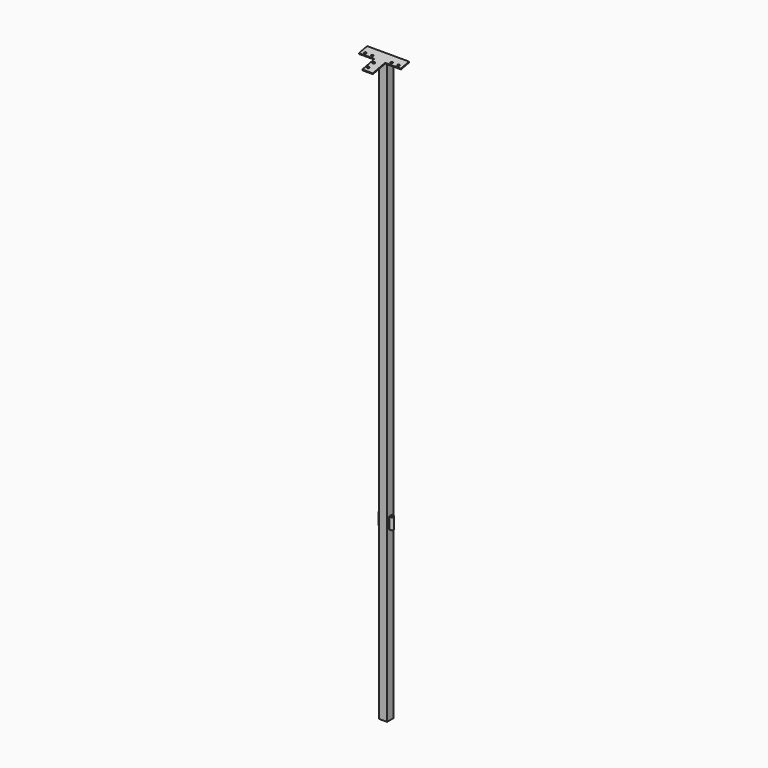
from build123d import *

# Parameters (mm, degrees)
F0_W      = 45
F0_H      = 45
F1_DEPTH  = 3330
F4_DEPTH  = 5
F5_R      = 8
F6_DEPTH  = 60
F9_W      = 45
F9_H      = 45.842251273
F10_DEPTH = 25
F11_W     = 60
F11_H     = 60
F11_W_2   = 90
F11_H_2   = 90
F12_DEPTH = 5
F13_R     = 6
F14_DEPTH = 25
F15_W     = 150
F15_H     = 4.7702248844
F16_DEPTH = 3358.6871623993
F18_DEPTH = 106.2


with BuildPart() as f1:
    # F0 (on Top) → F1 (new body)
    with BuildSketch(Plane.XY):
        Rectangle(F0_W, F0_H)
    extrude(amount=F1_DEPTH)

    # F3 (on offset) → F4 (join)
    with BuildSketch(Plane.XY.offset(965)):
        with BuildLine():
            Line((22.5, 2), (22.5, 0))
            ThreePointArc((22.5, 0), (22.5506384699, 1.0050896201), (22.7020410289, 2))
            Line((22.7020410289, 2), (22.5, 2))
        make_face()
        with BuildLine():
            ThreePointArc((22.7020410289, 2), (22.5506384699, 1.0050896201), (22.5, 0))
            Line((22.5, 0), (32.5, 0))
            Line((32.5, 0), (32.5, 2))
            Line((32.5, 2), (22.7020410289, 2))
        make_face()
        with BuildLine():
            Line((32.5, 0), (22.5, 0))
            ThreePointArc((22.5, 0), (22.5506384699, -1.0050896201), (22.7020410289, -2))
            Line((22.7020410289, -2), (32.5, -2))
            Line((32.5, -2), (32.5, 0))
        make_face()
        with BuildLine():
            ThreePointArc((22.7020410289, -2), (22.5506384699, -1.0050896201), (22.5, 0))
            Line((22.5, 0), (22.5, -2))
            Line((22.5, -2), (22.7020410289, -2))
        make_face()
        with BuildLine():
            Line((-22.4843378865, -10), (-22.4843378865, 0))
            Line((-22.4843378865, 0), (-22.5, 0))
            ThreePointArc((-22.5, 0), (-25.4289321881, -7.0710678119), (-32.5, -10))
            Line((-32.5, -10), (-22.4843378865, -10))
        make_face()
        with BuildLine():
            Line((-22.5, 0), (-22.4843378865, 0))
            Line((-22.4843378865, 0), (-22.4843378865, 10))
            Line((-22.4843378865, 10), (-32.5, 10))
            ThreePointArc((-32.5, 10), (-25.4289321881, 7.0710678119), (-22.5, 0))
        make_face()
        with BuildLine():
            Line((32.5, 2), (32.5, 0))
            Line((32.5, 0), (32.5, -2))
            Line((32.5, -2), (32.5, -10))
            ThreePointArc((32.5, -10), (39.5710678119, -7.0710678119), (42.5, 0))
            ThreePointArc((42.5, 0), (39.5710678119, 7.0710678119), (32.5, 10))
            Line((32.5, 10), (32.5, 2))
        make_face()
        with BuildLine():
            Line((22.5, 2), (22.7020410289, 2))
            ThreePointArc((22.7020410289, 2), (26.1754446797, 7.7459666924), (32.5, 10))
            Line((32.5, 10), (22.5, 10))
            Line((22.5, 10), (22.5, 2))
        make_face()
        with BuildLine():
            ThreePointArc((32.5, 10), (26.1754446797, 7.7459666924), (22.7020410289, 2))
            Line((22.7020410289, 2), (32.5, 2))
            Line((32.5, 2), (32.5, 10))
        make_face()
        with BuildLine():
            Line((32.5, -2), (22.7020410289, -2))
            ThreePointArc((22.7020410289, -2), (26.1754446797, -7.7459666924), (32.5, -10))
            Line((32.5, -10), (32.5, -2))
        make_face()
        with BuildLine():
            ThreePointArc((32.5, -10), (26.1754446797, -7.7459666924), (22.7020410289, -2))
            Line((22.7020410289, -2), (22.5, -2))
            Line((22.5, -2), (22.5, -10))
            Line((22.5, -10), (32.5, -10))
        make_face()
        with BuildLine():
            ThreePointArc((-32.5, -10), (-25.4289321881, -7.0710678119), (-22.5, 0))
            ThreePointArc((-22.5, 0), (-25.4289321881, 7.0710678119), (-32.5, 10))
            ThreePointArc((-32.5, 10), (-42.5, 0), (-32.5, -10))
        make_face()
    extrude(amount=F4_DEPTH)

    # F5 (on face) → F6 (join)
    with BuildSketch(Plane.XY.offset(970)):
        with BuildLine():
            ThreePointArc((32.5, -10), (39.5710678119, -7.0710678119), (42.5, 0))
            ThreePointArc((42.5, 0), (39.5710678119, 7.0710678119), (32.5, 10))
            ThreePointArc((32.5, 10), (25.4289321881, 7.0710678119), (22.5, 0))
            ThreePointArc((22.5, 0), (25.4289321881, -7.0710678119), (32.5, -10))
        make_face()
        with Locations((32.5, 0)):
            Circle(F5_R, mode=Mode.SUBTRACT)
        with BuildLine():
            ThreePointArc((-32.5, -10), (-25.4289321881, -7.0710678119), (-22.5, 0))
            ThreePointArc((-22.5, 0), (-25.4289321881, 7.0710678119), (-32.5, 10))
            ThreePointArc((-32.5, 10), (-42.5, 0), (-32.5, -10))
        make_face()
        with Locations((-32.5, 0)):
            Circle(F5_R, mode=Mode.SUBTRACT)
        with BuildLine():
            Line((-22.5, -10), (-22.5, 0))
            ThreePointArc((-22.5, 0), (-25.4289321881, -7.0710678119), (-32.5, -10))
            Line((-32.5, -10), (-22.5, -10))
        make_face()
        with BuildLine():
            ThreePointArc((-32.5, 10), (-25.4289321881, 7.0710678119), (-22.5, 0))
            Line((-22.5, 0), (-22.5, 10))
            Line((-22.5, 10), (-32.5, 10))
        make_face()
        with BuildLine():
            ThreePointArc((22.5, 0), (25.4289321881, 7.0710678119), (32.5, 10))
            Line((32.5, 10), (22.5, 10))
            Line((22.5, 10), (22.5, 0))
        make_face()
        with BuildLine():
            Line((22.5, -10), (32.5, -10))
            ThreePointArc((32.5, -10), (25.4289321881, -7.0710678119), (22.5, 0))
            Line((22.5, 0), (22.5, -10))
        make_face()
    extrude(amount=F6_DEPTH)

    # F9 (on face) → F10 (join)
    with BuildSketch(Plane(origin=(0, -624.5391596736, 3212.9754420296), x_dir=(1, 0, 0), z_dir=(0, 0.1908089954, -0.9816271834))):
        with Locations((0, -636.2284686128)):
            Rectangle(F9_W, F9_H)
    extrude(amount=F10_DEPTH)

    # F11 (on face) → F12 (join)
    with BuildSketch(Plane(origin=(0, -624.5391596736, 3212.9754420296), x_dir=(1, 0, 0), z_dir=(0, 0.1908089954, -0.9816271834))):
        with Locations((-7.5, -629.1495942493)):
            Rectangle(F11_W, F11_H)
        with Locations((-82.5, -629.1495942493)):
            Rectangle(F11_W_2, F11_H)
        with Locations((67.5, -629.1495942493)):
            Rectangle(F11_W_2, F11_H)
        with Locations((-7.5, -554.1495942493)):
            Rectangle(F11_W, F11_H_2)
    extrude(amount=F12_DEPTH)

    # F13 (on face) → F14 (cut)
    with BuildSketch(Plane(origin=(0, -624.5391596736, 3212.9754420296), x_dir=(1, 0, 0), z_dir=(0, -0.1908089954, 0.9816271834))):
        with BuildLine():
            Line((-28.5, 534.1495942493), (-22.5, 534.1495942493))
            Line((-22.5, 534.1495942493), (-22.5, 540.1495942493))
            ThreePointArc((-22.5, 540.1495942493), (-26.7426406871, 538.3922349364), (-28.5, 534.1495942493))
        make_face()
        with BuildLine():
            Line((-22.5, 540.1495942493), (-22.5, 534.1495942493))
            Line((-22.5, 534.1495942493), (-22.5, 528.1495942493))
            ThreePointArc((-22.5, 528.1495942493), (-18.2573593129, 529.9069535622), (-16.5, 534.1495942493))
            ThreePointArc((-16.5, 534.1495942493), (-18.2573593129, 538.3922349364), (-22.5, 540.1495942493))
        make_face()
        with BuildLine():
            Line((-22.5, 528.1495942493), (-22.5, 534.1495942493))
            Line((-22.5, 534.1495942493), (-28.5, 534.1495942493))
            ThreePointArc((-28.5, 534.1495942493), (-26.7426406871, 529.9069535622), (-22.5, 528.1495942493))
        make_face()
        with BuildLine():
            ThreePointArc((-22.5, 580.1495942493), (-28.5, 574.1495942493), (-22.5, 568.1495942493))
            Line((-22.5, 568.1495942493), (-22.5, 574.1495942493))
            Line((-22.5, 574.1495942493), (-22.5, 580.1495942493))
        make_face()
        with BuildLine():
            Line((-22.5, 574.1495942493), (-22.5, 568.1495942493))
            ThreePointArc((-22.5, 568.1495942493), (-18.2573593129, 569.9069535622), (-16.5, 574.1495942493))
            ThreePointArc((-16.5, 574.1495942493), (-18.2573593129, 578.3922349364), (-22.5, 580.1495942493))
            Line((-22.5, 580.1495942493), (-22.5, 574.1495942493))
        make_face()
        with BuildLine():
            ThreePointArc((81.5, 614.1495942493), (83.2573593129, 609.9069535622), (87.5, 608.1495942493))
            Line((87.5, 608.1495942493), (87.5, 614.1495942493))
            Line((87.5, 614.1495942493), (81.5, 614.1495942493))
        make_face()
        with Locations((47.5, 614.1495942493)):
            Circle(F13_R)
        with BuildLine():
            Line((87.5, 614.1495942493), (87.5, 608.1495942493))
            ThreePointArc((87.5, 608.1495942493), (91.7426406871, 609.9069535622), (93.5, 614.1495942493))
            ThreePointArc((93.5, 614.1495942493), (87.5, 620.1495942493), (81.5, 614.1495942493))
            Line((81.5, 614.1495942493), (87.5, 614.1495942493))
        make_face()
        with Locations((-62.5, 614.1495942493)):
            Circle(F13_R)
        with Locations((-102.5, 614.1495942493)):
            Circle(F13_R)
    extrude(amount=-F14_DEPTH, mode=Mode.SUBTRACT)

    # F15 (on Top) → F16 (cut)
    with BuildSketch(Plane.XY):
        with Locations((52.5, 24.8851124422)):
            Rectangle(F15_W, F15_H)
    extrude(amount=F16_DEPTH, mode=Mode.SUBTRACT)

    # F17 (on face) → F18 (cut)
    with BuildSketch(Plane.YZ.offset(-22.5)):
        Polygon((22.5, 3338.7471139112), (22.5, 3333.6535304364), (23.4540449769, 3333.838977994), align=None)
    extrude(amount=-F18_DEPTH, mode=Mode.SUBTRACT)


solid = f1.part
